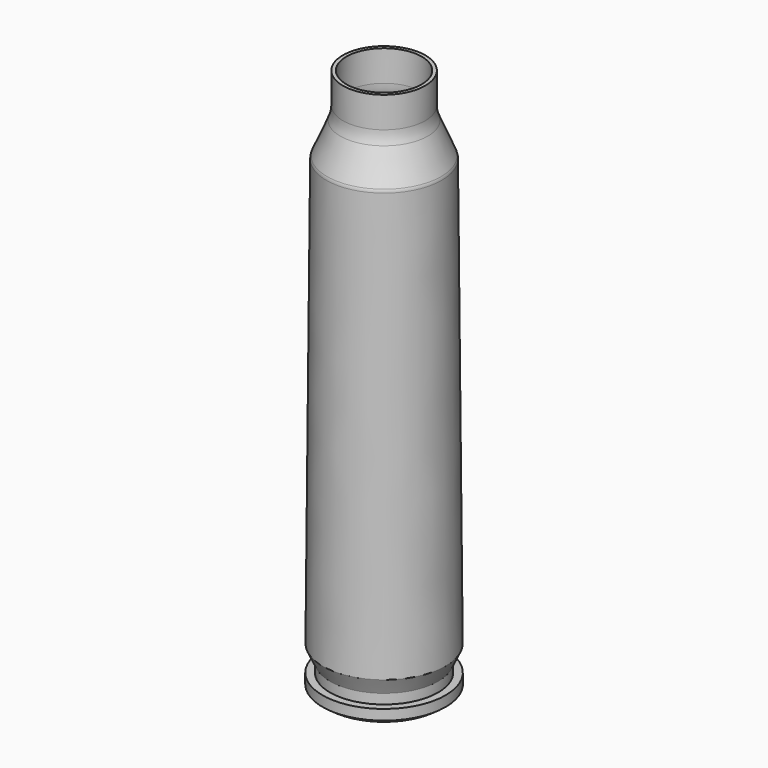
from build123d import *


with BuildPart() as f1:
    # F0 (on Front) → F1 (revolve)
    with BuildSketch(Plane.XZ):
        with BuildLine():
            Line((2.22631, -41.158347), (4.314927, -41.158347))
            Line((4.314927, -41.158347), (4.8, -40.818695))
            Line((4.8, -40.818695), (4.8, -40.013753))
            Line((4.8, -40.013753), (4.215, -40.013753))
            Line((4.215, -40.013753), (4.215, -39.253753))
            Line((4.215, -39.253753), (4.788558, -38.023753))
            Line((4.788558, -38.023753), (4.502255, -4.761092))
            ThreePointArc((4.502255, -4.761092), (4.488875, -4.636308), (4.451402, -4.516533))
            Line((4.451402, -4.516533), (3.416918, -2.079442))
            ThreePointArc((3.416918, -2.079442), (3.265991, -1.593379), (3.215, -1.086984))
            Line((3.215, -1.086984), (3.215, 1.319427))
            Line((3.215, 1.319427), (2.9356, 1.319427))
            Line((2.9356, 1.319427), (2.9356, -1.086984))
            ThreePointArc((2.9356, -1.086984), (2.9922, -1.649082), (3.159729, -2.188612))
            Line((3.159729, -2.188612), (4.194213, -4.625703))
            ThreePointArc((4.194213, -4.625703), (4.215327, -4.693189), (4.222865, -4.763497))
            Line((4.222865, -4.763497), (4.508625, -37.962956))
            Line((4.508625, -37.962956), (3.9356, -39.191812))
            Line((3.9356, -39.191812), (3.9356, -40.293153))
            Line((3.9356, -40.293153), (4.5206, -40.293153))
            Line((4.5206, -40.293153), (4.5206, -40.673249))
            Line((4.5206, -40.673249), (4.226832, -40.878947))
            Line((4.226832, -40.878947), (2.22631, -40.878947))
            Line((2.22631, -40.878947), (2.22631, -41.158347))
        make_face()
    revolve(axis=Axis((0, 0, -19.917163), (0, 0, 1)))


solid = f1.part
